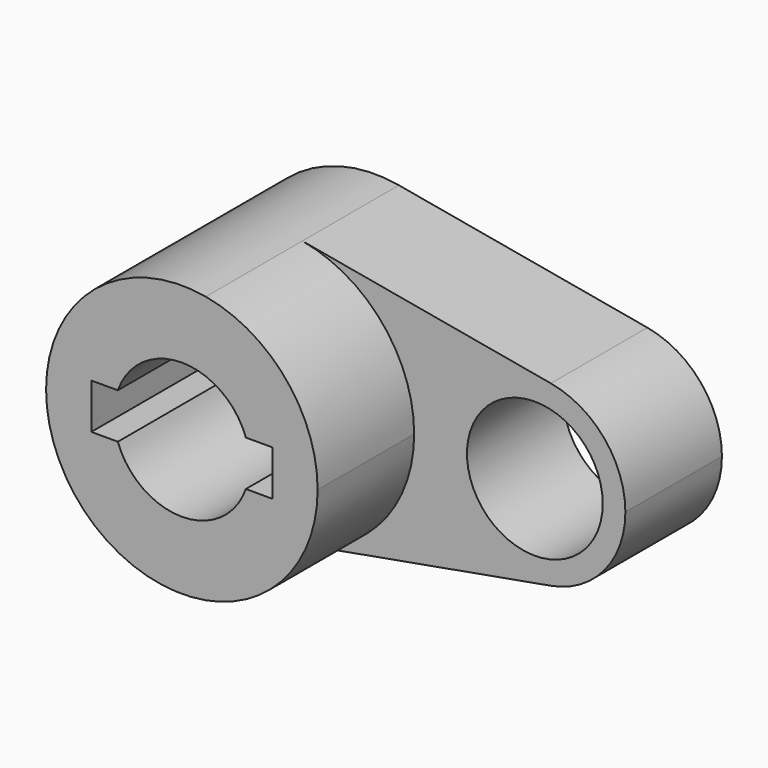
from build123d import *

# Parameters (mm, degrees)
F0_R     = 14.2875
F1_DEPTH = 25.4
F2_DEPTH = 25.4


with BuildPart() as f1:
    # F0 (on Front) → F1 (new body)
    with BuildSketch(Plane.XZ):
        with BuildLine():
            ThreePointArc((5.042647, -28.126541), (21.916025, -18.336262), (28.575, 0))
            ThreePointArc((28.575, 0), (21.916025, 18.336262), (5.042647, 28.126541))
            ThreePointArc((5.042647, 28.126541), (-28.575, 0), (5.042647, -28.126541))
        make_face()
        with BuildLine():
            ThreePointArc((-13.470384, 4.7625), (0, 14.2875), (13.470384, 4.7625))
            Line((13.470384, 4.7625), (19.05, 4.7625))
            Line((19.05, 4.7625), (19.05, -4.7625))
            Line((19.05, -4.7625), (13.470384, -4.7625))
            ThreePointArc((13.470384, -4.7625), (0, -14.2875), (-13.470384, -4.7625))
            Line((-13.470384, -4.7625), (-19.05, -4.7625))
            Line((-19.05, -4.7625), (-19.05, 4.7625))
            Line((-19.05, 4.7625), (-13.470384, 4.7625))
        make_face(mode=Mode.SUBTRACT)
        with BuildLine():
            ThreePointArc((73.025, 0), (68.585683, 12.224174), (57.336765, 18.751028))
            ThreePointArc((57.336765, 18.751028), (34.925, 0), (57.336765, -18.751028))
            ThreePointArc((57.336765, -18.751028), (68.585683, -12.224174), (73.025, 0))
        make_face()
        with Locations((53.975, 0)):
            Circle(F0_R, mode=Mode.SUBTRACT)
        with BuildLine():
            ThreePointArc((5.042647, 28.126541), (21.916025, 18.336262), (28.575, 0))
            ThreePointArc((28.575, 0), (21.916025, -18.336262), (5.042647, -28.126541))
            Line((5.042647, -28.126541), (57.336765, -18.751028))
            ThreePointArc((57.336765, -18.751028), (34.925, 0), (57.336765, 18.751028))
            Line((57.336765, 18.751028), (5.042647, 28.126541))
        make_face()
    extrude(amount=-F1_DEPTH)

    # F0 (on Front) → F2 (join)
    with BuildSketch(Plane.XZ):
        with BuildLine():
            ThreePointArc((5.042647, -28.126541), (21.916025, -18.336262), (28.575, 0))
            ThreePointArc((28.575, 0), (21.916025, 18.336262), (5.042647, 28.126541))
            ThreePointArc((5.042647, 28.126541), (-28.575, 0), (5.042647, -28.126541))
        make_face()
        with BuildLine():
            ThreePointArc((-13.470384, 4.7625), (0, 14.2875), (13.470384, 4.7625))
            Line((13.470384, 4.7625), (19.05, 4.7625))
            Line((19.05, 4.7625), (19.05, -4.7625))
            Line((19.05, -4.7625), (13.470384, -4.7625))
            ThreePointArc((13.470384, -4.7625), (0, -14.2875), (-13.470384, -4.7625))
            Line((-13.470384, -4.7625), (-19.05, -4.7625))
            Line((-19.05, -4.7625), (-19.05, 4.7625))
            Line((-19.05, 4.7625), (-13.470384, 4.7625))
        make_face(mode=Mode.SUBTRACT)
    extrude(amount=F2_DEPTH)


solid = f1.part
